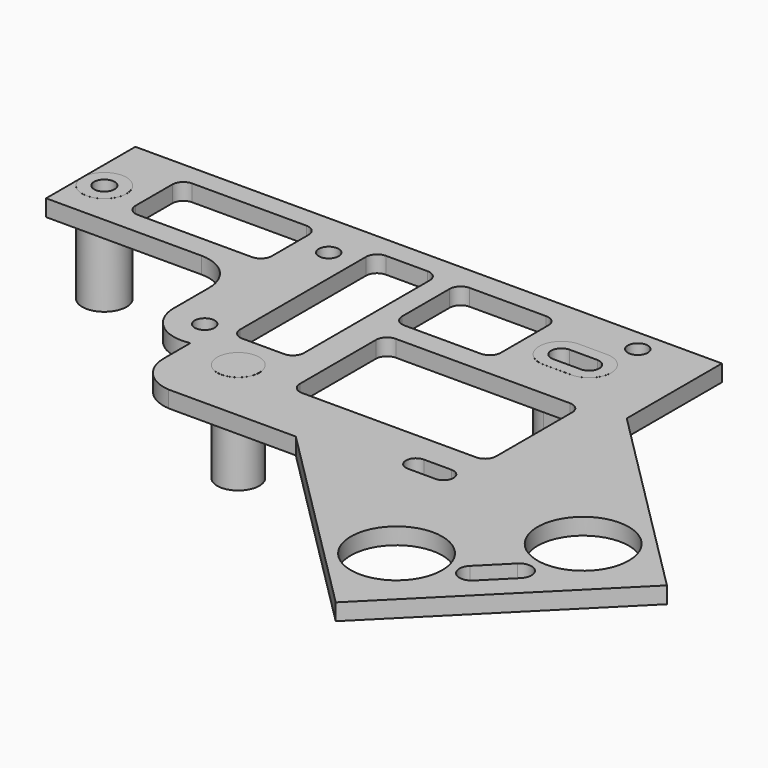
from build123d import *

# Parameters (mm, degrees)
SKETCH_R          = 1.85
PAD_DEPTH         = 3
SKETCH002_R       = 8.25
POCKET_DEPTH      = 5
SKETCH003_R       = 1.8
POCKET001_DEPTH   = 5
SKETCH001_R       = 3.8
SKETCH001_R_2     = 4
SKETCH001_R_3     = 1.85
PAD001_DEPTH      = 15
PAD001_DEPTH_BACK = 3.01
POCKET002_DEPTH   = 5


with BuildPart() as part:
    # Sketch → Pad (new body)
    with BuildSketch(Plane.XY):
        Polygon((-53, 12), (53, 12), (53, -9.5), (89.307498, -45.807498), (56.057498, -79.057498), (20, -43), (-53, -43), align=None)
        with Locations((-49, 0)):
            Circle(SKETCH_R, mode=Mode.SUBTRACT)
        with BuildLine():
            ThreePointArc((33.6, 1.85), (31.75, 0), (33.6, -1.85))
            Line((33.6, -1.85), (38.6, -1.85))
            ThreePointArc((38.6, -1.85), (40.45, 0), (38.6, 1.85))
            Line((33.6, 1.85), (38.6, 1.85))
        make_face(mode=Mode.SUBTRACT)
    extrude(amount=PAD_DEPTH)

    # Sketch002 → Pocket (cut)
    with BuildSketch(Plane.XY.offset(3)):
        with Locations((53.4, -62)):
            Circle(SKETCH002_R)
        with Locations((72.13833, -43.26167)):
            Circle(SKETCH002_R)
        with BuildLine():
            ThreePointArc((63.900545, -58.499812), (63.900526, -61.681792), (67.082506, -61.681812))
            Line((67.082506, -61.681812), (71.820122, -56.944196))
            ThreePointArc((71.820122, -56.944196), (71.820141, -53.762216), (68.638161, -53.762196))
            Line((63.900545, -58.499812), (68.638161, -53.762196))
        make_face()
    extrude(amount=-POCKET_DEPTH, mode=Mode.SUBTRACT)

    # Sketch003 → Pocket001 (cut)
    with BuildSketch(Plane.XY.offset(3)):
        with Locations((41, 8)):
            Circle(SKETCH003_R)
        with Locations((-11.5, 3.8)):
            Circle(SKETCH003_R)
        with Locations((-11.5, -24.2)):
            Circle(SKETCH003_R)
        with BuildLine():
            ThreePointArc((38.500015, -37.2), (36.7, -38.999992), (38.5, -40.8))
            Line((38.5, -40.8), (43.5, -40.8))
            ThreePointArc((43.5, -40.8), (45.3, -39.000007), (43.500014, -37.2))
            Line((38.500015, -37.2), (43.500014, -37.2))
        make_face()
    extrude(amount=-POCKET001_DEPTH, mode=Mode.SUBTRACT)

    # Sketch001 → Pad001 (new body, two sides)
    with BuildSketch(Plane(origin=(0, 0, 0), x_dir=(1, 0, 0), z_dir=(0, 0, -1))) as pad001_sk:
        with Locations((0, 31)):
            Circle(SKETCH001_R)
        with Locations((-49, 0)):
            Circle(SKETCH001_R_2)
        with Locations((-49, 0)):
            Circle(SKETCH001_R_3, mode=Mode.SUBTRACT)
        with BuildLine():
            ThreePointArc((33.599994, 4), (29.6, 0), (33.599994, -4))
            Line((33.599994, -4), (38.599999, -4))
            ThreePointArc((38.599999, -4), (42.6, 0), (38.599999, 4))
            Line((33.599994, 4), (38.599999, 4))
        make_face()
        with BuildLine():
            ThreePointArc((33.599994, 1.85), (31.75, 0), (33.599994, -1.85))
            Line((33.599994, -1.85), (38.599987, -1.85))
            ThreePointArc((38.599987, -1.85), (40.45, 0), (38.599986, 1.85))
            Line((33.599994, 1.85), (38.599986, 1.85))
        make_face(mode=Mode.SUBTRACT)
    extrude(amount=PAD001_DEPTH)
    extrude(pad001_sk.sketch, amount=-PAD001_DEPTH_BACK)

    # Sketch005 → Pocket002 (cut)
    with BuildSketch(Plane(origin=(0, 0, 0), x_dir=(1, 0, 0), z_dir=(0, 0, -1))):
        with BuildLine():
            Line((-54.253271, 49.235991), (-17.942303, 49.235991))
            Line((-17.942303, 49.235991), (-17.942303, 43.633577))
            Line((-17.942303, 43.633577), (-9.10105, 43.633577))
            Line((-9.10105, 43.633577), (-9.10105, 45.139777))
            Line((-9.10105, 45.139777), (-1.154269, 45.139777))
            Line((-1.154269, 45.139777), (-1.154269, 43.019269))
            Line((-1.154269, 43.019269), (-2.454473, 43.019269))
            ThreePointArc((-2.454473, 43.019269), (-7.40422, 40.969016), (-9.454473, 36.019269))
            Line((-9.454473, 36.019269), (-9.454473, 29.986307))
            ThreePointArc((-9.454473, 29.986307), (-15.334637, 28.596701), (-17.942303, 23.146251))
            Line((-17.942303, 23.146251), (-17.942303, 15.161412))
            ThreePointArc((-24.942303, 8.161412), (-19.992556, 10.211665), (-17.942303, 15.161412))
            Line((-24.942303, 8.161412), (-59.799003, 8.161412))
            ThreePointArc((-65.681137, 14.043546), (-63.9583, 9.884249), (-59.799003, 8.161412))
            Line((-65.681137, 14.043546), (-65.681137, 37.808126))
            ThreePointArc((-54.253271, 49.235991), (-62.333993, 45.888847), (-65.681137, 37.808126))
        make_face()
        with BuildLine():
            Line((12.376733, 32.061868), (43.844814, 32.061868))
            ThreePointArc((45.844814, 30.061868), (45.259028, 31.476081), (43.844814, 32.061868))
            Line((45.844814, 30.061868), (45.844814, 12.876317))
            ThreePointArc((43.844814, 10.876317), (45.259028, 11.462103), (45.844814, 12.876317))
            Line((43.844814, 10.876317), (12.376733, 10.876317))
            ThreePointArc((10.376733, 12.876317), (10.96252, 11.462103), (12.376733, 10.876317))
            Line((10.376733, 12.876317), (10.376733, 30.061868))
            ThreePointArc((12.376733, 32.061868), (10.96252, 31.476081), (10.376733, 30.061868))
        make_face()
        with BuildLine():
            Line((-4.570687, 24.344919), (2.945518, 24.344919))
            ThreePointArc((4.945518, 22.344919), (4.359732, 23.759133), (2.945518, 24.344919))
            Line((4.945518, 22.344919), (4.945518, -6.0694))
            ThreePointArc((2.945518, -8.0694), (4.359732, -7.483613), (4.945518, -6.0694))
            Line((2.945518, -8.0694), (-4.570687, -8.0694))
            ThreePointArc((-6.570687, -6.0694), (-5.9849, -7.483613), (-4.570687, -8.0694))
            Line((-6.570687, -6.0694), (-6.570687, 22.344919))
            ThreePointArc((-4.570687, 24.344919), (-5.9849, 23.759133), (-6.570687, 22.344919))
        make_face()
        with BuildLine():
            Line((10.764026, 6.926982), (24.596303, 6.926982))
            ThreePointArc((26.596303, 4.926982), (26.010517, 6.341195), (24.596303, 6.926982))
            Line((26.596303, 4.926982), (26.596303, -5.795768))
            ThreePointArc((24.596303, -7.795768), (26.010517, -7.209982), (26.596303, -5.795768))
            Line((24.596303, -7.795768), (10.764026, -7.795768))
            ThreePointArc((8.764026, -5.795768), (9.349812, -7.209982), (10.764026, -7.795768))
            Line((8.764026, -5.795768), (8.764026, 4.926982))
            ThreePointArc((10.764026, 6.926982), (9.349812, 6.341195), (8.764026, 4.926982))
        make_face()
        with BuildLine():
            Line((-39.731076, 4.038284), (-19.095187, 4.038284))
            ThreePointArc((-17.095187, 2.038284), (-17.680973, 3.452498), (-19.095187, 4.038284))
            Line((-17.095187, 2.038284), (-17.095187, -6.255927))
            ThreePointArc((-19.095187, -8.255927), (-17.680973, -7.67014), (-17.095187, -6.255927))
            Line((-19.095187, -8.255927), (-39.731076, -8.255927))
            ThreePointArc((-41.731076, -6.255927), (-41.145289, -7.67014), (-39.731076, -8.255927))
            Line((-41.731076, -6.255927), (-41.731076, 2.038284))
            ThreePointArc((-39.731076, 4.038284), (-41.145289, 3.452498), (-41.731076, 2.038284))
        make_face()
    extrude(amount=-POCKET002_DEPTH, mode=Mode.SUBTRACT)


solid = part.part
